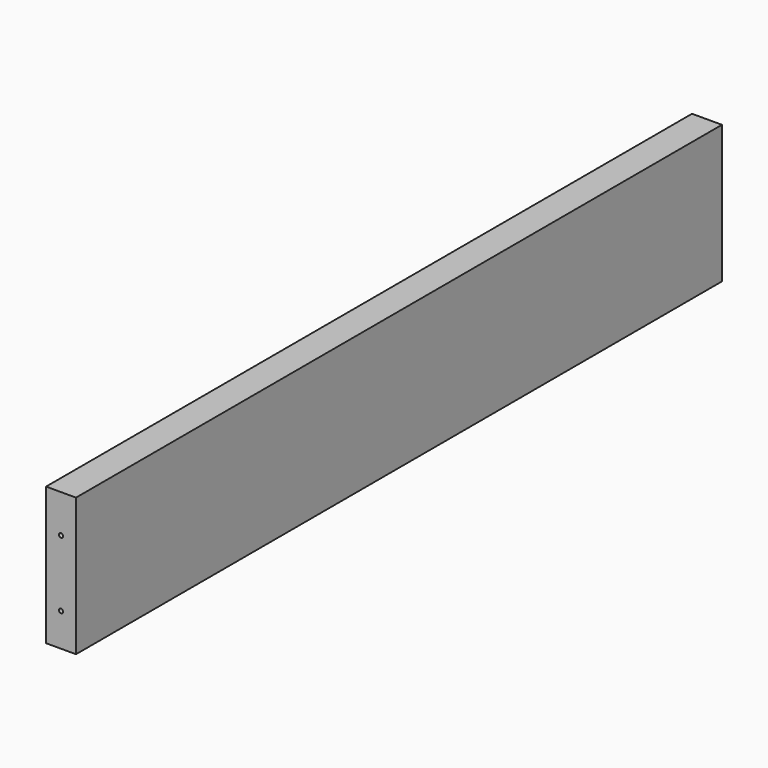
from build123d import *

# Parameters (mm, degrees)
F0_W     = 486
F0_H     = 83
F1_DEPTH = 18
F3_D     = 2.5
F3_DEPTH = 14.5
F3_TIP   = 0.7510757738
F5_D     = 2.5
F5_DEPTH = 14
F5_TIP   = 0.7510757738


with BuildPart() as f1:
    # F0 (on Right) → F1 (new body)
    with BuildSketch(Plane.YZ):
        with Locations((243, 41.5)):
            Rectangle(F0_W, F0_H)
    extrude(amount=F1_DEPTH)

    # F3
    with Locations(Plane.XZ):
        with Locations((9, 20), (9, 60)):
            Hole(F3_D / 2, depth=F3_DEPTH)
            with Locations((0, 0, -(F3_DEPTH + F3_TIP / 2))):  # 118° drill point
                Cone(0, F3_D / 2, F3_TIP, mode=Mode.SUBTRACT)

    # F5
    with Locations(Plane(origin=(0, 486, 0), x_dir=(-1, 0, 0), z_dir=(0, 1, 0))):
        with Locations((-9, 60), (-9, 20)):
            Hole(F5_D / 2, depth=F5_DEPTH)
            with Locations((0, 0, -(F5_DEPTH + F5_TIP / 2))):  # 118° drill point
                Cone(0, F5_D / 2, F5_TIP, mode=Mode.SUBTRACT)


solid = f1.part
